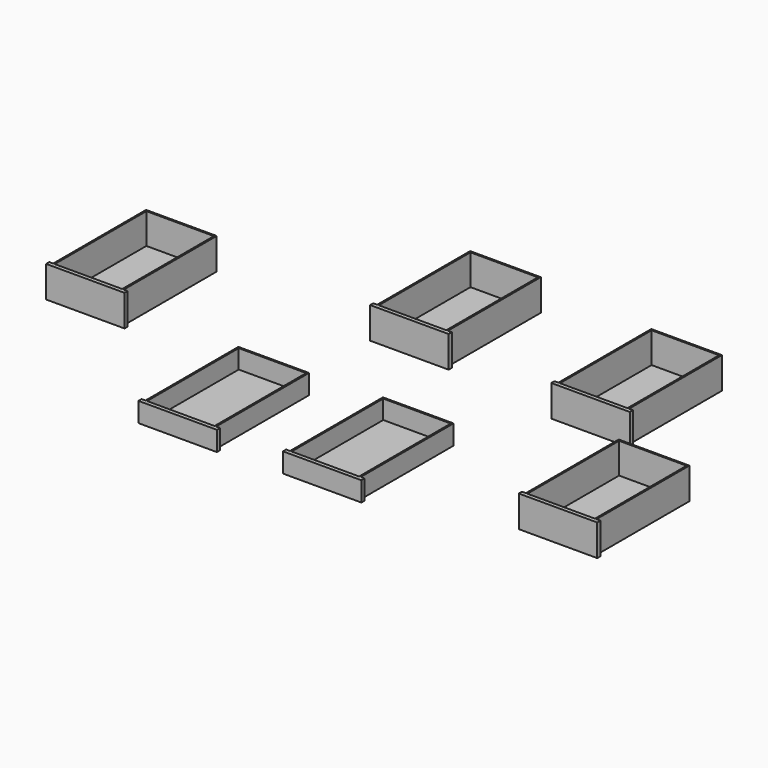
from build123d import *

# Parameters (mm, degrees)
F0_W     = 430
F0_H     = 10
F0_W_2   = 10
F0_H_2   = 730
F0_W_3   = 25
F0_H_3   = 25
F1_DEPTH = 200
F2_DEPTH = 125
F3_DEPTH = 5


with BuildPart() as f1:
    # F0 (on Top) → F1 (new body)
    with BuildSketch(Plane.XY):
        Polygon((-4019.9609445532, -520.78614374), (-4019.9609445532, -780.78614374), (-4019.9609445532, -1080.78614374), (-4019.9609445532, -1250.78614374), (-4009.9609445532, -1250.78614374), (-4009.9609445532, -520.78614374), align=None)
        with Locations((-3794.9609445532, -515.78614374)):
            Rectangle(F0_W, F0_H)
        with Locations((-4014.9609445532, -515.78614374)):
            Rectangle(F0_W_2, F0_H)
        with Locations((-3574.9609445532, -515.78614374)):
            Rectangle(F0_W_2, F0_H)
        with Locations((-3574.9609445532, -885.78614374)):
            Rectangle(F0_W_2, F0_H_2)
        Polygon((-3569.9609445532, -1271.3719205062), (-3569.9609445532, -1275.78614374), (-3544.9609445532, -1275.78614374), (-3544.9609445532, -1250.78614374), (-3569.9609445532, -1250.78614374), align=None)
        Polygon((-4009.9609445532, -1250.78614374), (-4019.9609445532, -1250.78614374), (-4019.9609445532, -1275.78614374), (-3569.9609445532, -1275.78614374), (-3569.9609445532, -1271.3719205062), (-3569.9609445532, -1250.78614374), (-3579.9609445532, -1250.78614374), align=None)
        with Locations((-4032.4609445532, -1263.28614374)):
            Rectangle(F0_W_3, F0_H_3)
    extrude(amount=F1_DEPTH)

    # F0 (on Top) → F3, piece 6 (join)
    with BuildSketch(Plane.XY):
        with Locations((-3794.9609445532, -885.78614374)):
            Rectangle(F0_W, F0_H_2)
    extrude(amount=F3_DEPTH)


with BuildPart() as f1b:
    # F0 (on Top) → F1, piece 2 (new body)
    with BuildSketch(Plane.XY):
        Polygon((-2483.459186554, 139.7927517568), (-2483.459186554, -120.2072482432), (-2483.459186554, -420.2072482432), (-2483.459186554, -590.2072482432), (-2473.459186554, -590.2072482432), (-2473.459186554, 139.7927517568), align=None)
        with Locations((-2478.459186554, 144.7927517568)):
            Rectangle(F0_W_2, F0_H)
        with Locations((-2258.459186554, 144.7927517568)):
            Rectangle(F0_W, F0_H)
        with Locations((-2038.459186554, -225.2072482432)):
            Rectangle(F0_W_2, F0_H_2)
        with Locations((-2038.459186554, 144.7927517568)):
            Rectangle(F0_W_2, F0_H)
        Polygon((-2473.459186554, -590.2072482432), (-2483.459186554, -590.2072482432), (-2483.459186554, -615.2072482432), (-2033.459186554, -615.2072482432), (-2033.459186554, -610.7930250093), (-2033.459186554, -590.2072482432), (-2043.459186554, -590.2072482432), align=None)
        Polygon((-2033.459186554, -610.7930250093), (-2033.459186554, -615.2072482432), (-2008.459186554, -615.2072482432), (-2008.459186554, -590.2072482432), (-2033.459186554, -590.2072482432), align=None)
        with Locations((-2495.959186554, -602.7072482432)):
            Rectangle(F0_W_3, F0_H_3)
    extrude(amount=F1_DEPTH)

    # F0 (on Top) → F3, piece 5 (join)
    with BuildSketch(Plane.XY):
        with Locations((-2258.459186554, -225.2072482432)):
            Rectangle(F0_W, F0_H_2)
    extrude(amount=F3_DEPTH)


with BuildPart() as f1c:
    # F0 (on Top) → F1, piece 3 (new body)
    with BuildSketch(Plane.XY):
        with Locations((-1267.5131797791, -695.3036599482)):
            Rectangle(F0_W_3, F0_H_3)
        Polygon((-1245.0131797791, -682.8036599482), (-1255.0131797791, -682.8036599482), (-1255.0131797791, -707.8036599482), (-805.0131797791, -707.8036599482), (-805.0131797791, -703.3894367144), (-805.0131797791, -682.8036599482), (-815.0131797791, -682.8036599482), align=None)
        Polygon((-805.0131797791, -703.3894367144), (-805.0131797791, -707.8036599482), (-780.0131797791, -707.8036599482), (-780.0131797791, -682.8036599482), (-805.0131797791, -682.8036599482), align=None)
        with Locations((-810.0131797791, -317.8036599482)):
            Rectangle(F0_W_2, F0_H_2)
        Polygon((-1255.0131797791, 47.1963400518), (-1255.0131797791, -212.8036599482), (-1255.0131797791, -512.8036599482), (-1255.0131797791, -682.8036599482), (-1245.0131797791, -682.8036599482), (-1245.0131797791, 47.1963400518), align=None)
        with Locations((-1250.0131797791, 52.1963400518)):
            Rectangle(F0_W_2, F0_H)
        with Locations((-1030.0131797791, 52.1963400518)):
            Rectangle(F0_W, F0_H)
        with Locations((-810.0131797791, 52.1963400518)):
            Rectangle(F0_W_2, F0_H)
    extrude(amount=F1_DEPTH)

    # F0 (on Top) → F3, piece 4 (join)
    with BuildSketch(Plane.XY):
        with Locations((-1030.0131797791, -317.8036599482)):
            Rectangle(F0_W, F0_H_2)
    extrude(amount=F3_DEPTH)


with BuildPart() as f1d:
    # F0 (on Top) → F1, piece 4 (new body)
    with BuildSketch(Plane.XY):
        with Locations((-632.7036094666, -978.7105756129)):
            Rectangle(F0_W_2, F0_H)
        with Locations((-412.7036094666, -978.7105756129)):
            Rectangle(F0_W, F0_H)
        with Locations((-192.7036094666, -978.7105756129)):
            Rectangle(F0_W_2, F0_H)
        with Locations((-192.7036094666, -1348.7105756129)):
            Rectangle(F0_W_2, F0_H_2)
        Polygon((-637.7036094666, -983.7105756129), (-637.7036094666, -1243.7105756129), (-637.7036094666, -1543.7105756129), (-637.7036094666, -1713.7105756129), (-627.7036094666, -1713.7105756129), (-627.7036094666, -983.7105756129), align=None)
        with Locations((-650.2036094666, -1726.2105756129)):
            Rectangle(F0_W_3, F0_H_3)
        Polygon((-627.7036094666, -1713.7105756129), (-637.7036094666, -1713.7105756129), (-637.7036094666, -1738.7105756129), (-187.7036094666, -1738.7105756129), (-187.7036094666, -1734.296352379), (-187.7036094666, -1713.7105756129), (-197.7036094666, -1713.7105756129), align=None)
        Polygon((-187.7036094666, -1734.296352379), (-187.7036094666, -1738.7105756129), (-162.7036094666, -1738.7105756129), (-162.7036094666, -1713.7105756129), (-187.7036094666, -1713.7105756129), align=None)
    extrude(amount=F1_DEPTH)

    # F0 (on Top) → F3, piece 3 (join)
    with BuildSketch(Plane.XY):
        with Locations((-412.7036094666, -1348.7105756129)):
            Rectangle(F0_W, F0_H_2)
    extrude(amount=F3_DEPTH)


with BuildPart() as f2:
    # F0 (on Top) → F2 (new body)
    with BuildSketch(Plane.XY):
        with Locations((-2841.6525363922, -2016.3460784281)):
            Rectangle(F0_W_3, F0_H_3)
        Polygon((-2819.1525363922, -2003.8460784281), (-2829.1525363922, -2003.8460784281), (-2829.1525363922, -2028.8460784281), (-2379.1525363922, -2028.8460784281), (-2379.1525363922, -2024.4318551943), (-2379.1525363922, -2003.8460784281), (-2389.1525363922, -2003.8460784281), align=None)
        Polygon((-2379.1525363922, -2024.4318551943), (-2379.1525363922, -2028.8460784281), (-2354.1525363922, -2028.8460784281), (-2354.1525363922, -2003.8460784281), (-2379.1525363922, -2003.8460784281), align=None)
        with Locations((-2384.1525363922, -1638.8460784281)):
            Rectangle(F0_W_2, F0_H_2)
        with Locations((-2384.1525363922, -1268.8460784281)):
            Rectangle(F0_W_2, F0_H)
        with Locations((-2604.1525363922, -1268.8460784281)):
            Rectangle(F0_W, F0_H)
        Polygon((-2829.1525363922, -1273.8460784281), (-2829.1525363922, -1533.8460784281), (-2829.1525363922, -1833.8460784281), (-2829.1525363922, -2003.8460784281), (-2819.1525363922, -2003.8460784281), (-2819.1525363922, -1273.8460784281), align=None)
        with Locations((-2824.1525363922, -1268.8460784281)):
            Rectangle(F0_W_2, F0_H)
    extrude(amount=F2_DEPTH)

    # F0 (on Top) → F3 (join)
    with BuildSketch(Plane.XY):
        with Locations((-2604.1525363922, -1638.8460784281)):
            Rectangle(F0_W, F0_H_2)
    extrude(amount=F3_DEPTH)


with BuildPart() as f2b:
    # F0 (on Top) → F2, piece 2 (new body)
    with BuildSketch(Plane.XY):
        with Locations((-1702.8805971146, -1244.153662237)):
            Rectangle(F0_W, F0_H)
        with Locations((-1922.8805971146, -1244.153662237)):
            Rectangle(F0_W_2, F0_H)
        Polygon((-1927.8805971146, -1249.153662237), (-1927.8805971146, -1509.153662237), (-1927.8805971146, -1809.153662237), (-1927.8805971146, -1979.153662237), (-1917.8805971146, -1979.153662237), (-1917.8805971146, -1249.153662237), align=None)
        with Locations((-1940.3805971146, -1991.653662237)):
            Rectangle(F0_W_3, F0_H_3)
        Polygon((-1917.8805971146, -1979.153662237), (-1927.8805971146, -1979.153662237), (-1927.8805971146, -2004.153662237), (-1477.8805971146, -2004.153662237), (-1477.8805971146, -1999.7394390032), (-1477.8805971146, -1979.153662237), (-1487.8805971146, -1979.153662237), align=None)
        Polygon((-1477.8805971146, -1999.7394390032), (-1477.8805971146, -2004.153662237), (-1452.8805971146, -2004.153662237), (-1452.8805971146, -1979.153662237), (-1477.8805971146, -1979.153662237), align=None)
        with Locations((-1482.8805971146, -1614.153662237)):
            Rectangle(F0_W_2, F0_H_2)
        with Locations((-1482.8805971146, -1244.153662237)):
            Rectangle(F0_W_2, F0_H)
    extrude(amount=F2_DEPTH)

    # F0 (on Top) → F3, piece 2 (join)
    with BuildSketch(Plane.XY):
        with Locations((-1702.8805971146, -1614.153662237)):
            Rectangle(F0_W, F0_H_2)
    extrude(amount=F3_DEPTH)


solid = Compound([f1.part, f1b.part, f1c.part, f1d.part, f2.part, f2b.part])
